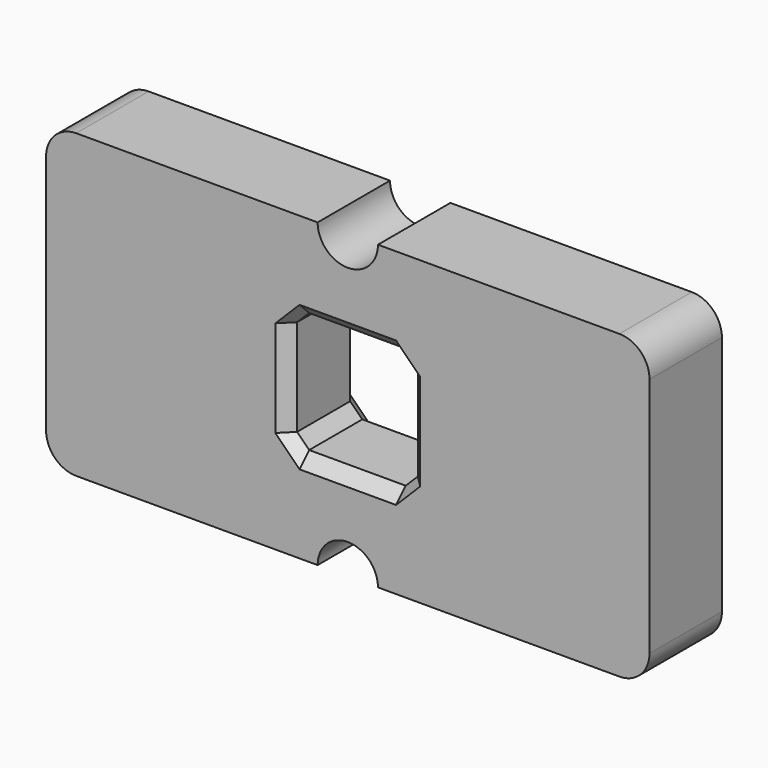
from build123d import *

# Parameters (mm, degrees)
F0_W     = 50.8
F0_H     = 50.8
F1_DEPTH = 38.1
F2_SIZE  = 5.08


with BuildPart() as f1:
    # F0 (on Front) → F1 (new body)
    with BuildSketch(Plane.XZ):
        with BuildLine():
            Line((-12.397719, 69.223381), (-113.997719, 69.223381))
            ThreePointArc((-113.997719, 69.223381), (-122.977975, 65.503637), (-126.697719, 56.523381))
            Line((-126.697719, 56.523381), (-126.697719, -45.076619))
            ThreePointArc((-126.697719, -45.076619), (-122.977975, -54.056875), (-113.997719, -57.776619))
            Line((-113.997719, -57.776619), (-12.397719, -57.776619))
            ThreePointArc((-12.397719, -57.776619), (0.302281, -45.076619), (13.002281, -57.776619))
            Line((13.002281, -57.776619), (114.602281, -57.776619))
            ThreePointArc((114.602281, -57.776619), (123.582537, -54.056875), (127.302281, -45.076619))
            Line((127.302281, -45.076619), (127.302281, 56.523381))
            ThreePointArc((127.302281, 56.523381), (123.582537, 65.503637), (114.602281, 69.223381))
            Line((114.602281, 69.223381), (13.002281, 69.223381))
            ThreePointArc((13.002281, 69.223381), (0.302281, 56.523381), (-12.397719, 69.223381))
        make_face()
        with Locations((0.302281, 5.723381)):
            Rectangle(F0_W, F0_H, mode=Mode.SUBTRACT)
    extrude(amount=F1_DEPTH)

    # F2
    f2_edges = [f1.edges().sort_by_distance(p)[0] for p in [
        (25.702281, -19.05, 31.123381),
        (25.702281, -19.05, -19.676619),
        (25.702281, 0, 5.723381),
        (25.702281, -38.1, 5.723381),
        (-25.097719, -19.05, 31.123381),
        (0.302281, 0, 31.123381),
        (0.302281, -38.1, 31.123381),
        (-25.097719, -19.05, -19.676619),
        (0.302281, 0, -19.676619),
        (0.302281, -38.1, -19.676619),
        (-25.097719, 0, 5.723381),
        (-25.097719, -38.1, 5.723381),
    ]]
    chamfer(f2_edges, length=F2_SIZE)


solid = f1.part
